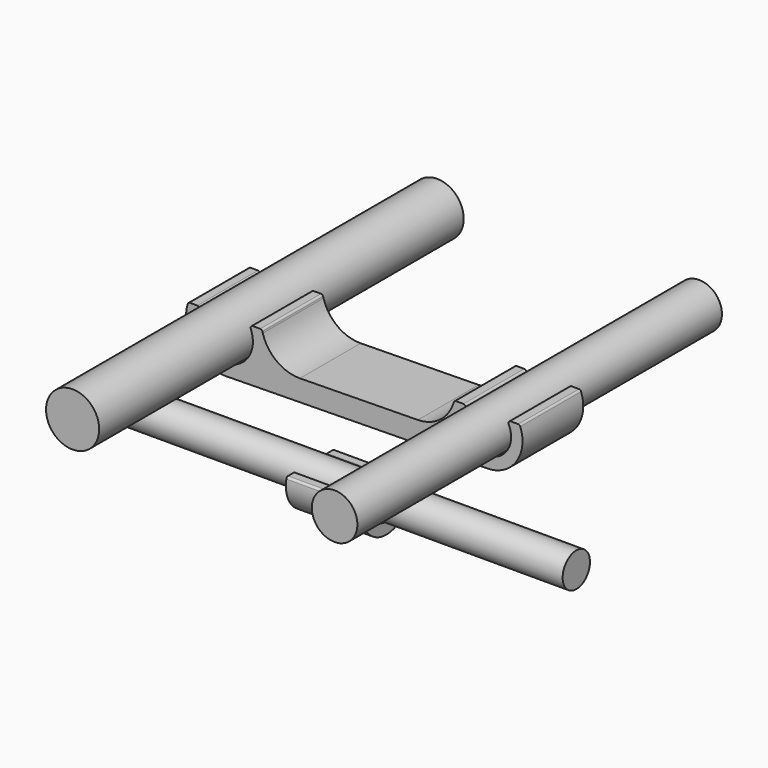
from build123d import *

# Parameters (mm, degrees)
F0_R      = 3.5
F1_DEPTH  = 60
F0_R_2    = 3
F2_R      = 2.25
F3_DEPTH  = 30
F5_DEPTH  = 5
F6_R      = 0.3
F9_DEPTH  = 5
F10_ANGLE = 90
F11_ANGLE = 270
F13_DEPTH = 10
F14_R     = 0.3
F15_R     = 5


with BuildPart() as f1:
    # F0 (on Front) → F1 (new body)
    with BuildSketch(Plane.XZ):
        with Locations((-24.4668319107, 18.6456460506)):
            Circle(F0_R)
    extrude(amount=F1_DEPTH)


with BuildPart() as f1b:
    # F0 (on Front) → F1, piece 2 (new body)
    with BuildSketch(Plane.XZ):
        with Locations((10.0331680893, 18.6456460506)):
            Circle(F0_R_2)
    extrude(amount=F1_DEPTH)


with BuildPart() as f3:
    # F2 (on Right) → F3 (new body, symmetric)
    with BuildSketch(Plane.YZ):
        with Locations((-45.1782383025, 12.8956460506)):
            Circle(F2_R)
    extrude(amount=F3_DEPTH, both=True)


with BuildPart() as f5:
    # F4 (on Right) → F5 (new body, symmetric)
    with BuildSketch(Plane.YZ):
        with BuildLine():
            ThreePointArc((-42.8324974813, 13.8956460506), (-45.1782383025, 10.3456460506), (-47.5239791236, 13.8956460506))
            Line((-47.5239791236, 13.8956460506), (-49.1028401931, 13.8956460506))
            ThreePointArc((-49.1028401931, 13.8956460506), (-45.1782383025, 8.8456460506), (-41.2536364118, 13.8956460506))
            Line((-41.2536364118, 13.8956460506), (-42.8324974813, 13.8956460506))
        make_face()
    extrude(amount=F5_DEPTH, both=True)

    # F6
    f6_edges = [f5.edges().sort_by_distance(p)[0] for p in [
        (0, -41.253636, 13.895646),
        (0, -42.832497, 13.895646),
        (0, -47.523979, 13.895646),
        (0, -49.10284, 13.895646),
    ]]
    fillet(f6_edges, radius=F6_R)


with BuildPart() as f9:
    # F8 (on offset) → F9 (new body, symmetric)
    with BuildSketch(Plane.XZ.offset(29.9)):
        with BuildLine():
            ThreePointArc((-26.2668319107, 13.8097800475), (-19.3068319107, 18.6456460506), (-26.2668319107, 23.4815120537))
            Line((-26.2668319107, 23.4815120537), (-26.2668319107, 21.8324312645))
            ThreePointArc((-26.2668319107, 21.8324312645), (-20.8068319107, 18.6456460506), (-26.2668319107, 15.4588608366))
            Line((-26.2668319107, 15.4588608366), (-26.2668319107, 13.8097800475))
        make_face()
    extrude(amount=F9_DEPTH, both=True)


with BuildPart() as f9b:
    # F8 (on offset) → F9, piece 2 (new body, symmetric)
    with BuildSketch(Plane.XZ.offset(29.9)):
        with BuildLine():
            Line((11.8331680893, 21.2428753435), (11.8331680893, 22.9439713058))
            ThreePointArc((11.8331680893, 22.9439713058), (5.3731680893, 18.6456460506), (11.8331680893, 14.3473207953))
            Line((11.8331680893, 14.3473207953), (11.8331680893, 16.0484167577))
            ThreePointArc((11.8331680893, 16.0484167577), (6.8731680893, 18.6456460506), (11.8331680893, 21.2428753435))
        make_face()
    extrude(amount=F9_DEPTH, both=True)


with BuildPart() as f9_1:
    # F10: moved
    add(f9.part.rotate(Axis((-24.4668319107, 0, 18.6456460506), (0, 1, 0)), F10_ANGLE))



with BuildPart() as f9b_1:
    # F11: moved
    add(f9b.part.rotate(Axis((10.0331680893, 0, 18.6456460506), (0, 1, 0)), F11_ANGLE))


with BuildPart() as f9_2:
    add(f9_1.part)

    add(f9b_1.part)  # F13 merges F9b
    # F12 (on face) → F13 (join)
    with BuildSketch(Plane.XZ.offset(34.9)):
        with BuildLine():
            ThreePointArc((10.0331680893, 13.9856460506), (7.5183986062, 14.7224414362), (5.7988525354, 16.6998372752))
            Line((5.7988525354, 16.6998372752), (-19.8566035887, 16.3280190705))
            ThreePointArc((-19.8566035887, 16.3280190705), (-21.695455678, 14.293052137), (-24.3172981014, 13.4878132072))
            Line((-24.3172981014, 13.4878132072), (10.0331680893, 13.9856460506))
        make_face()
    extrude(amount=-F13_DEPTH)

    # F14
    f14_edges = [f9_2.edges().sort_by_distance(p)[0] for p in [
        (-19.630966, -29.9, 20.445646),
        (-21.280047, -29.9, 20.445646),
        (-27.653617, -29.9, 20.445646),
        (-29.302698, -29.9, 20.445646),
        (7.435939, -29.9, 20.445646),
        (5.734843, -29.9, 20.445646),
        (14.331493, -29.9, 20.445646),
        (12.630397, -29.9, 20.445646),
    ]]
    fillet(f14_edges, radius=F14_R)

    # F15
    f15_edges = [f9_2.edges().sort_by_distance(p)[0] for p in [
        (-19.856604, -29.9, 16.328019),
        (5.798853, -29.9, 16.699837),
    ]]
    fillet(f15_edges, radius=F15_R)


solid = Compound([f1.part, f1b.part, f3.part, f5.part, f9_2.part])
